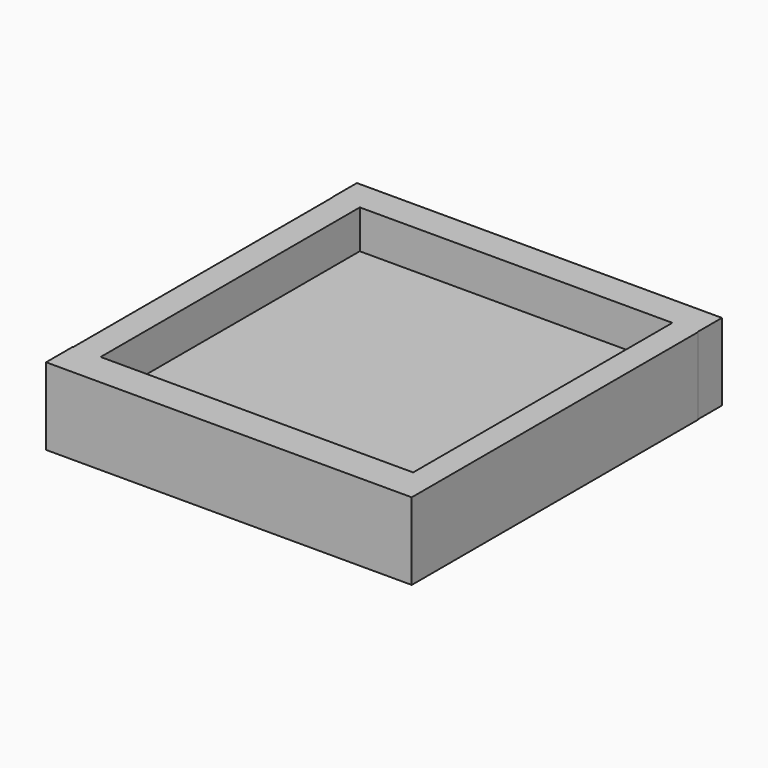
from build123d import *

# Parameters (mm, degrees)
F0_W     = 1023.6526727676
F0_H     = 1059.3687295914
F2_DEPTH = 127
F1_W     = 89.4548892975
F1_H     = 1066.4296150208
F3_DEPTH = 254


with BuildPart() as f2:
    # F0 (on Top) → F2 (new body)
    with BuildSketch(Plane.XY):
        Rectangle(F0_W, F0_H)
    extrude(amount=F2_DEPTH)

    # F1 (on face) → F3 (join)
    with BuildSketch(Plane.XY):
        Polygon((-600.310921669, -536.5094542503), (-601.9932627678, -536.5094542503), (-601.9932627678, -647.0065116882), (601.6421914101, -647.0065116882), (601.6421914101, -536.5094542503), (517.9332494736, -536.5094542503), (-510.8560323715, -536.5094542503), align=None)
        with Locations((-555.5834770203, -3.29464674)):
            Rectangle(F1_W, F1_H)
        Polygon((-601.388335228, 529.9201607704), (-600.310921669, 529.9201607704), (-510.8560323715, 529.9201607704), (517.9332494736, 529.9201607704), (600.1440882683, 529.9201607704), (600.1440882683, 631.1146616936), (-601.388335228, 631.1146616936), align=None)
        Polygon((517.9332494736, 529.9201607704), (517.9332494736, -536.5094542503), (601.6421914101, -536.5094542503), (601.6421914101, 529.9201607704), (600.1440882683, 529.9201607704), align=None)
    extrude(amount=F3_DEPTH)


solid = f2.part
